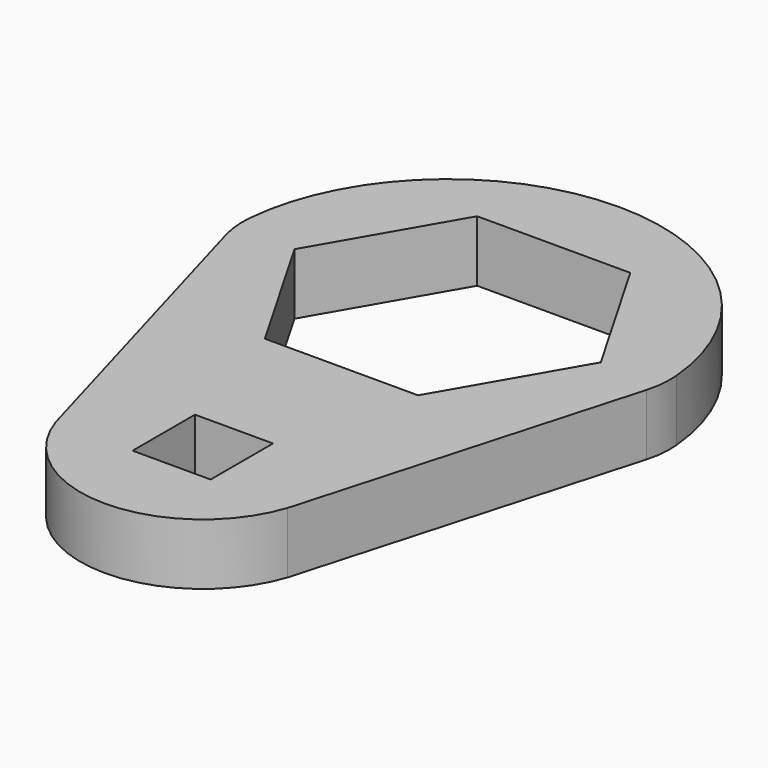
from build123d import *

# Parameters (mm, degrees)
SKETCH_W  = 12.75
SKETCH_H  = 12.75
PAD_DEPTH = 10
FILLET_R  = 15


with BuildPart() as part:
    # Sketch → Pad (new body)
    with BuildSketch(Plane.XY):
        with BuildLine():
            ThreePointArc((35, 0), (0, 35), (-35, 0))
            Line((-35, 0), (-18.956776, -56.375))
            ThreePointArc((-18.956776, -56.375), (0, -70), (18.956776, -56.375))
            Line((18.956776, -56.375), (35, 0))
        make_face()
        Polygon((-25.025, 0), (-12.5125, -21.672286), (12.5125, -21.672286), (25.025, 0), (12.5125, 21.672286), (-12.5125, 21.672286), align=None, mode=Mode.SUBTRACT)
        with Locations((0, -50)):
            Rectangle(SKETCH_W, SKETCH_H, mode=Mode.SUBTRACT)
    extrude(amount=PAD_DEPTH)

    # Fillet
    fillet_edges = [part.edges().sort_by_distance(p)[0] for p in [
        (-35, 0, 5),
        (-18.956776, -56.375, 5),
        (18.956776, -56.375, 5),
        (35, 0, 5),
    ]]
    fillet(fillet_edges, radius=FILLET_R)


solid = part.part
